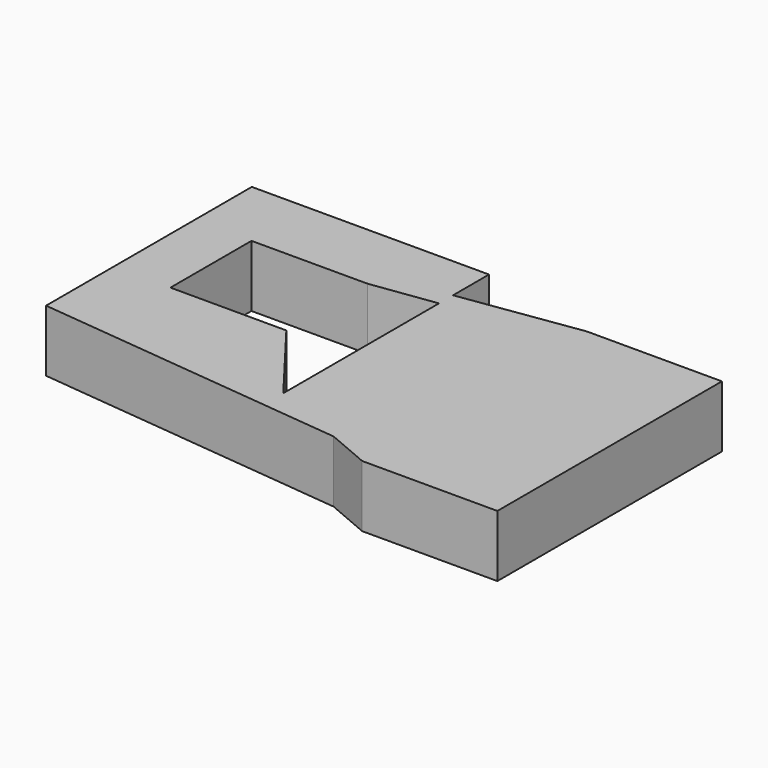
from build123d import *

# Parameters (mm, degrees)
F1_DEPTH = 25


with BuildPart() as f1:
    # F0 (on Top) → F1 (new body)
    with BuildSketch(Plane.XY):
        Polygon((51.4127239585, 48.7721934915), (-37.7440825105, 48.7721934915), (-44.5784032345, 48.7721934915), (-44.5784032345, -55.2958585322), (-21.5902365744, -21.1242605001), (-21.5902365744, 19.8816582561), (51.4127239585, 30.571033374), align=None)
        Polygon((99.8647660017, 37.6655682921), (51.4127239585, 30.571033374), (51.4127239585, 23.4723131254), (99.8647660017, 30.1393648456), align=None)
        Polygon((51.4127239585, 23.4723131254), (51.4127239585, 30.571033374), (-21.5902365744, 19.8816582561), (25.3180470318, 19.8816582561), align=None)
        Polygon((-21.5902365744, -21.1242605001), (-44.5784032345, -55.2958585322), (51.4127239585, -55.2958585322), (25.3180470318, -21.1242605001), align=None)
        Polygon((51.4127239585, -55.2958585322), (-44.5784032345, -55.2958585322), (82.2778115873, -68.4372480694), align=None)
        Polygon((99.8647660017, 30.1393648456), (51.4127239585, 23.4723131254), (51.4127239585, -55.2958585322), (82.2778115873, -68.4372480694), (99.8647660017, -70.2591297885), align=None)
        Polygon((154.5605957508, 37.6655682921), (99.8647660017, 37.6655682921), (99.8647660017, 30.1393648456), align=None)
        Polygon((99.8647660017, -70.2591297885), (82.2778115873, -68.4372480694), (99.8647660017, -75.9252235293), align=None)
        Polygon((154.5605957508, 37.6655682921), (99.8647660017, 30.1393648456), (99.8647660017, -70.2591297885), (154.5605957508, -75.9252235293), align=None)
        Polygon((154.5605957508, -75.9252235293), (99.8647660017, -70.2591297885), (99.8647660017, -75.9252235293), align=None)
    extrude(amount=F1_DEPTH)


solid = f1.part
